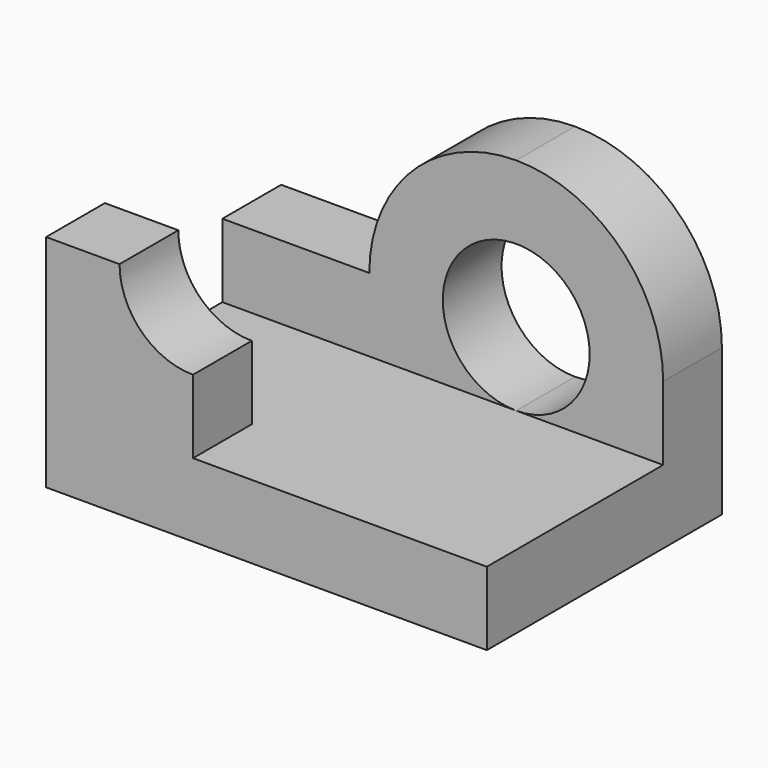
from build123d import *

# Parameters (mm, degrees)
F0_W      = 60
F0_H      = 40
F1_DEPTH  = 40
F3_DEPTH  = 60
F4_W      = 40
F4_H      = 10
F5_DEPTH  = 20
F7_DEPTH  = 10
F8_DEPTH  = 20
F9_W      = 20
F9_H      = 20
F10_DEPTH = 10
F12_DEPTH = 10
F14_DEPTH = 10


with BuildPart() as f1:
    # F0 (on Front) → F1 (new body)
    with BuildSketch(Plane.XZ):
        with Locations((30, 20)):
            Rectangle(F0_W, F0_H)
    extrude(amount=F1_DEPTH)

    # F2 (on face) → F3 (cut)
    with BuildSketch(Plane.YZ.offset(60)):
        Polygon((-10, 40), (-40, 40), (-40, 30), (-30, 30), (-30, 10), (-10, 10), align=None)
    extrude(amount=-F3_DEPTH, mode=Mode.SUBTRACT)

    # F4 (on face) → F5 (cut)
    with BuildSketch(Plane.XY.offset(30)):
        with Locations((40, -35)):
            Rectangle(F4_W, F4_H)
    extrude(amount=-F5_DEPTH, mode=Mode.SUBTRACT)

    # F6 (on face) → F7 (join)
    with BuildSketch(Plane.XZ.offset(40)):
        with BuildLine():
            Line((20, 30), (10, 30))
            ThreePointArc((10, 30), (12.928932, 22.928932), (20, 20))
            Line((20, 20), (20, 30))
        make_face()
    extrude(amount=F7_DEPTH)

    # F7_face (on face) → F8 (cut)
    with BuildSketch(Plane(origin=(15.755868, -50, 25.755868), x_dir=(1, 0, 0), z_dir=(0, -1, 0))):
        with BuildLine():
            Line((4.244132, 4.244132), (-5.755868, 4.244132))
            ThreePointArc((-5.755868, 4.244132), (-2.826936, -2.826936), (4.244132, -5.755868))
            Line((4.244132, -5.755868), (4.244132, 4.244132))
        make_face()
    extrude(amount=-F8_DEPTH, mode=Mode.SUBTRACT)

    # F9 (on face) → F10 (cut)
    with BuildSketch(Plane(origin=(0, 0, 0), x_dir=(-1, 0, 0), z_dir=(0, 1, 0))):
        with Locations((-10, 30)):
            Rectangle(F9_W, F9_H)
    extrude(amount=-F10_DEPTH, mode=Mode.SUBTRACT)

    # F11 (on face) → F12 (cut)
    with BuildSketch(Plane.XZ.offset(10)):
        with BuildLine():
            ThreePointArc((20, 20), (25.857864, 34.142136), (40, 40))
            Line((40, 40), (20, 40))
            Line((20, 40), (20, 20))
        make_face()
        with BuildLine():
            ThreePointArc((40, 40), (54.142136, 34.142136), (60, 20))
            Line((60, 20), (60, 40))
            Line((60, 40), (40, 40))
        make_face()
    extrude(amount=-F12_DEPTH, mode=Mode.SUBTRACT)

    # F13 (on face) → F14 (cut)
    with BuildSketch(Plane.XZ.offset(10)):
        with BuildLine():
            ThreePointArc((40, 10), (47.071068, 12.928932), (50, 20))
            ThreePointArc((50, 20), (32.928932, 27.071068), (40, 10))
        make_face()
    extrude(amount=-F14_DEPTH, mode=Mode.SUBTRACT)


solid = f1.part
